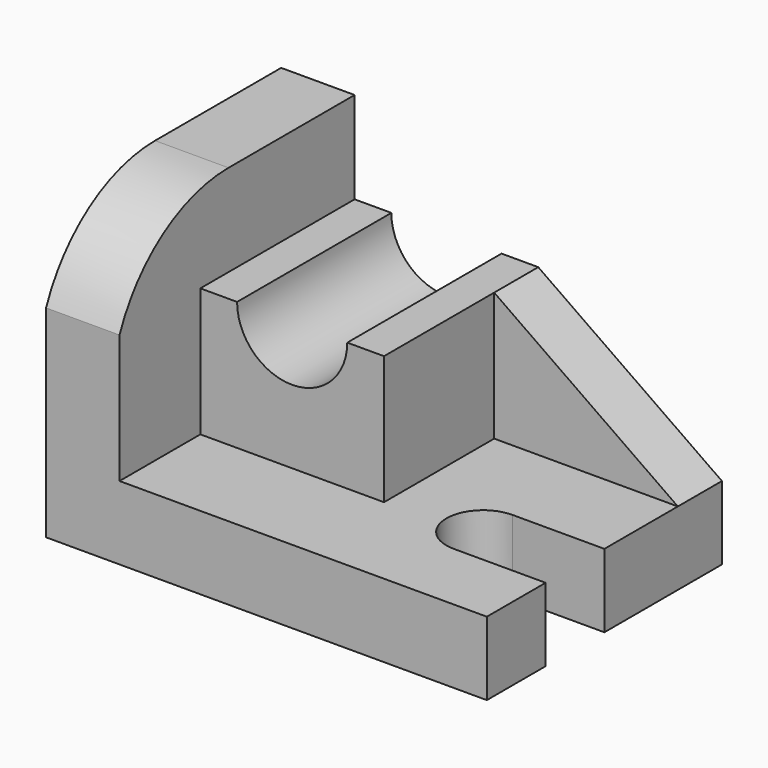
from build123d import *

# Parameters (mm, degrees)
F0_W      = 96
F0_H      = 64
F1_DEPTH  = 16
F3_DEPTH  = 16
F5_DEPTH  = 16
F6_W      = 40
F6_H      = 28
F7_DEPTH  = 42
F9_DEPTH  = 42
F11_DEPTH = 12


with BuildPart() as f1:
    # F0 (on Top) → F1 (new body)
    with BuildSketch(Plane.XY):
        with Locations((-6.250218, 25.54076)):
            Rectangle(F0_W, F0_H)
    extrude(amount=F1_DEPTH)

    # F2 (on face) → F3 (join)
    with BuildSketch(Plane(origin=(-54.250218, 0, 0), x_dir=(0, -1, 0), z_dir=(-1, 0, 0))):
        with BuildLine():
            Line((-57.54076, 16), (6.45924, 16))
            Line((6.45924, 16), (6.45924, 44))
            ThreePointArc((6.45924, 44), (-5.31701, 58.532998), (-23.205554, 64))
            Line((-23.205554, 64), (-57.54076, 64))
            Line((-57.54076, 64), (-57.54076, 16))
        make_face()
    extrude(amount=-F3_DEPTH)

    # F4 (on face) → F5 (cut)
    with BuildSketch(Plane.XY.offset(16)):
        with BuildLine():
            Line((21.749782, 9.54076), (41.749782, 9.54076))
            Line((41.749782, 9.54076), (41.749782, 25.54076))
            Line((41.749782, 25.54076), (21.749782, 25.54076))
            ThreePointArc((21.749782, 25.54076), (13.749782, 17.54076), (21.749782, 9.54076))
        make_face()
    extrude(amount=-F5_DEPTH, mode=Mode.SUBTRACT)

    # F6 (on face) → F7 (join)
    with BuildSketch(Plane(origin=(0, 57.54076, 0), x_dir=(-1, 0, 0), z_dir=(0, 1, 0))):
        with Locations((18.250218, 30)):
            Rectangle(F6_W, F6_H)
    extrude(amount=-F7_DEPTH)

    # F8 (on face) → F9 (cut)
    with BuildSketch(Plane(origin=(0, 57.54076, 0), x_dir=(-1, 0, 0), z_dir=(0, 1, 0))):
        with BuildLine():
            ThreePointArc((6.250218, 44), (18.250218, 32), (30.250218, 44))
            Line((30.250218, 44), (6.250218, 44))
        make_face()
    extrude(amount=-F9_DEPTH, mode=Mode.SUBTRACT)

    # F10 (on face) → F11 (join)
    with BuildSketch(Plane(origin=(0, 57.54076, 0), x_dir=(-1, 0, 0), z_dir=(0, 1, 0))):
        Polygon((-41.749782, 16), (-1.749782, 16), (-1.749782, 44), align=None)
    extrude(amount=-F11_DEPTH)


solid = f1.part
